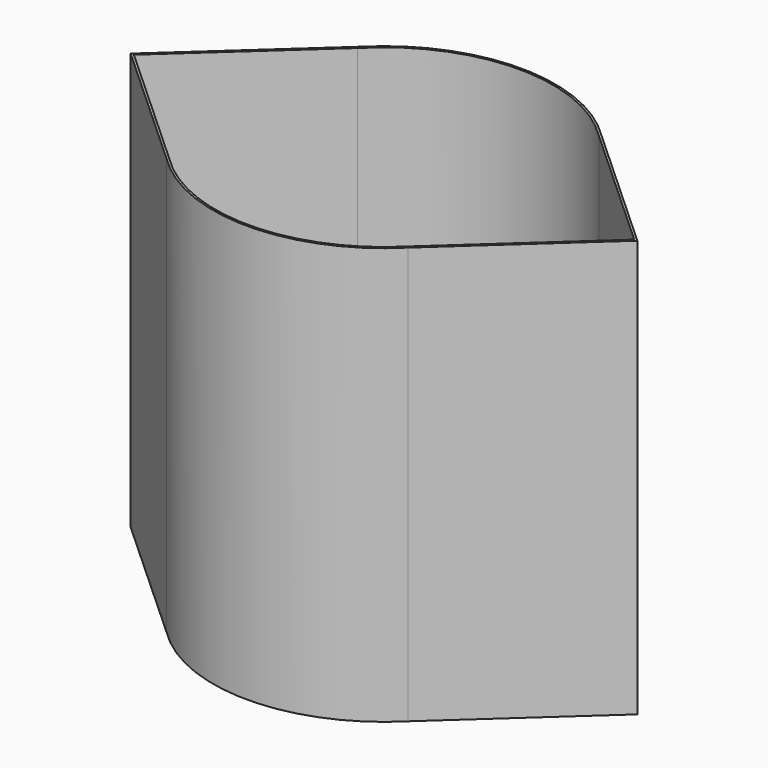
from build123d import *

# Parameters (mm, degrees)
F1_DEPTH = 10


with BuildPart() as f1:
    # F0 (on Top) → F1 (new body)
    with BuildSketch(Plane.XY):
        with BuildLine():
            Line((6.074123, 0), (2.89862, 2.899655))
            ThreePointArc((2.89862, 2.899655), (0, 4.1), (-2.89862, 2.899655))
            Line((-2.89862, 2.899655), (-6.078002, 0))
            Line((-6.078002, 0), (-2.89862, -2.899655))
            ThreePointArc((-2.89862, -2.899655), (0, -4.1), (2.89862, -2.899655))
            Line((2.89862, -2.899655), (6.074123, 0))
        make_face()
        with BuildLine():
            ThreePointArc((-2.89862, 2.828516), (-0.024786, 4.049924), (2.863782, 2.863782))
            Line((2.863782, 2.863782), (6, 0))
            Line((6, 0), (2.863782, -2.863782))
            ThreePointArc((2.863782, -2.863782), (0, -4.05), (-2.863782, -2.863782))
            Line((-2.863782, -2.863782), (-6, 0))
            Line((-6, 0), (-2.89862, 2.828516))
        make_face(mode=Mode.SUBTRACT)
    extrude(amount=F1_DEPTH)


solid = f1.part
